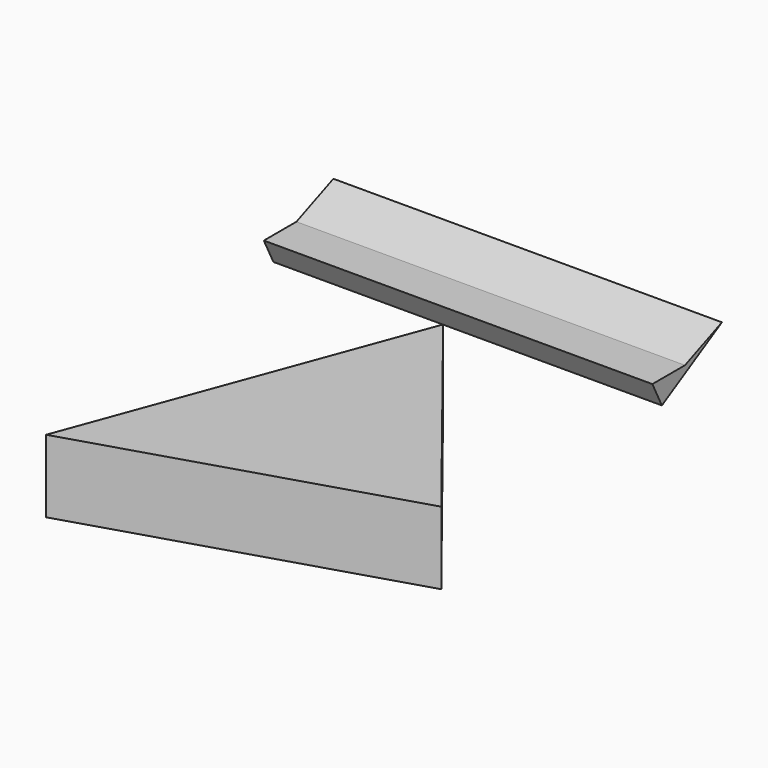
from build123d import *

# Parameters (mm, degrees)
F1_DEPTH = 25.4
F3_DEPTH = 135.830835


with BuildPart() as f1:
    # F0 (on Top) → F1 (new body)
    with BuildSketch(Plane.XY):
        Polygon((66.91578, -10.271098), (0, 74.186161), (-43.896168, -44.440858), align=None)
    extrude(amount=-F1_DEPTH)


with BuildPart() as f3:
    # F2 (on Right) → F3 (new body)
    with BuildSketch(Plane.YZ):
        Polygon((0, 49.394526), (26.227757, 64.327851), (10.086454, 57.669543), (-4.166014, 57.669543), align=None)
    extrude(amount=F3_DEPTH)


solid = Compound([f1.part, f3.part])
